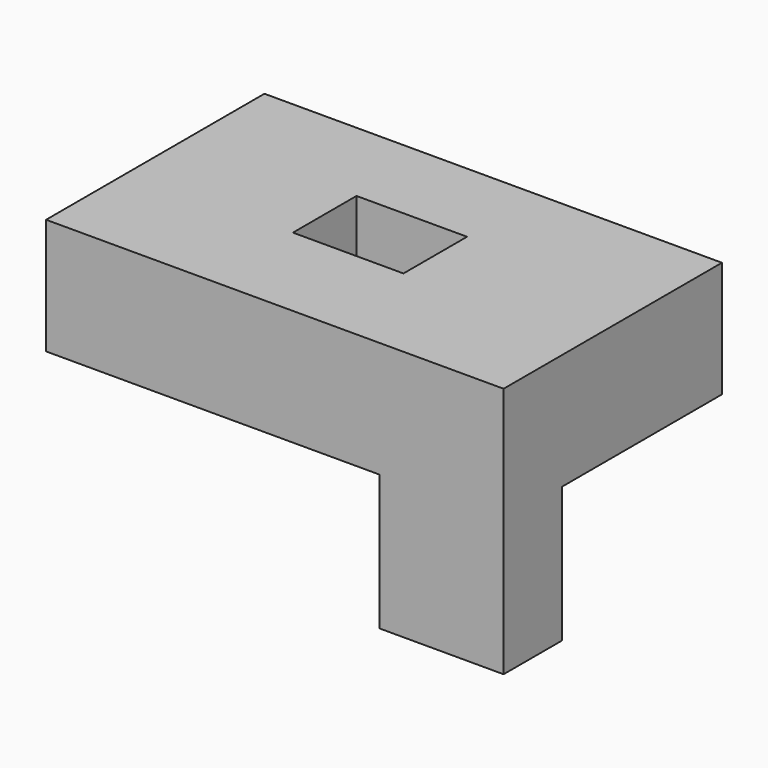
from build123d import *

# Parameters (mm, degrees)
F0_W     = 24.078095
F0_H     = 12.475135
F0_W_2   = 22.912228
F0_H_2   = 13.509782
F0_W_3   = 20.404858
F0_H_3   = 14.665992
F1_DEPTH = 46.4
F2_DEPTH = 25


with BuildPart() as f1:
    # F0 (on Top) → F1 (new body)
    with BuildSketch(Plane.XY):
        with Locations((-28.458583, 17.7153)):
            Rectangle(F0_W, F0_H)
        with Locations((32.498623, -19.66734)):
            Rectangle(F0_W_2, F0_H_2)
        Polygon((43.954737, 23.952868), (-16.419536, 23.952868), (-16.419536, 11.477733), (-40.497631, 11.477733), (-40.497631, -26.422231), (21.042509, -26.422231), (21.042509, -12.912449), (43.954737, -12.912449), align=None)
        Rectangle(F0_W_3, F0_H_3, mode=Mode.SUBTRACT)
    extrude(amount=F1_DEPTH)

    # F0 (on Top) → F2 (cut)
    with BuildSketch(Plane.XY):
        Polygon((43.954737, 23.952868), (-16.419536, 23.952868), (-16.419536, 11.477733), (-40.497631, 11.477733), (-40.497631, -26.422231), (21.042509, -26.422231), (21.042509, -12.912449), (43.954737, -12.912449), align=None)
        Rectangle(F0_W_3, F0_H_3, mode=Mode.SUBTRACT)
    extrude(amount=F2_DEPTH, mode=Mode.SUBTRACT)


solid = f1.part
